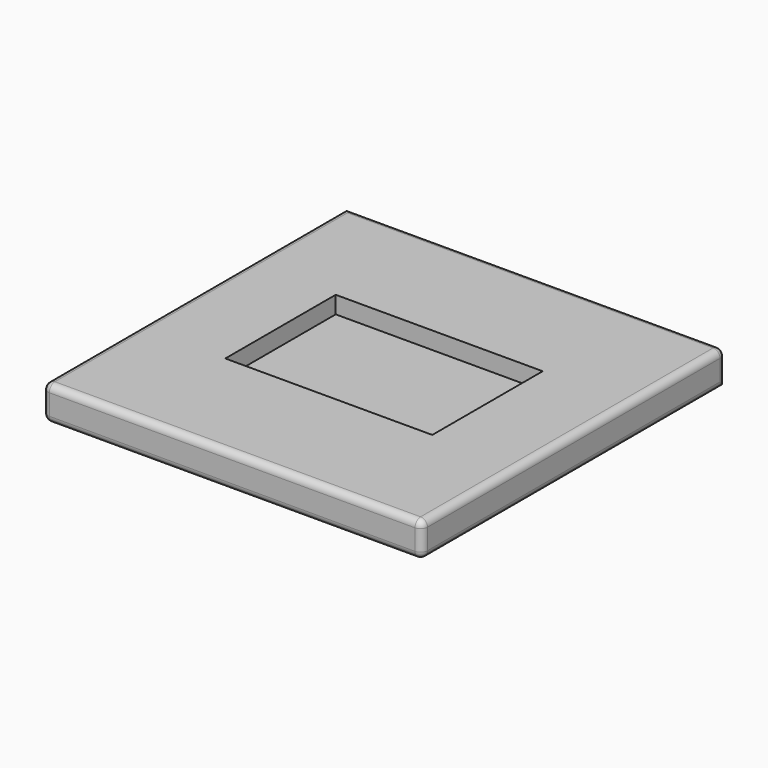
from build123d import *

# Parameters (mm, degrees)
F0_W     = 550
F0_H     = 550
F1_DEPTH = 50
F2_R     = 10
F3_W     = 300
F3_H     = 200
F4_DEPTH = 25


with BuildPart() as f1:
    # F0 (on Top) → F1 (new body)
    with BuildSketch(Plane.XY):
        Rectangle(F0_W, F0_H)
    extrude(amount=F1_DEPTH)

    # F2
    f2_edges = [f1.edges().sort_by_distance(p)[0] for p in [
        (-275, 0, 50),
        (0, -275, 50),
        (275, 0, 0),
        (275, -275, 25),
        (275, 275, 25),
        (275, 0, 50),
        (0, 275, 50),
        (0, -275, 0),
        (-275, -275, 25),
        (-275, 0, 0),
    ]]
    fillet(f2_edges, radius=F2_R)

    # F3 (on face) → F4 (cut)
    with BuildSketch(Plane.XY.offset(50)):
        Rectangle(F3_W, F3_H)
    extrude(amount=-F4_DEPTH, mode=Mode.SUBTRACT)


solid = f1.part
